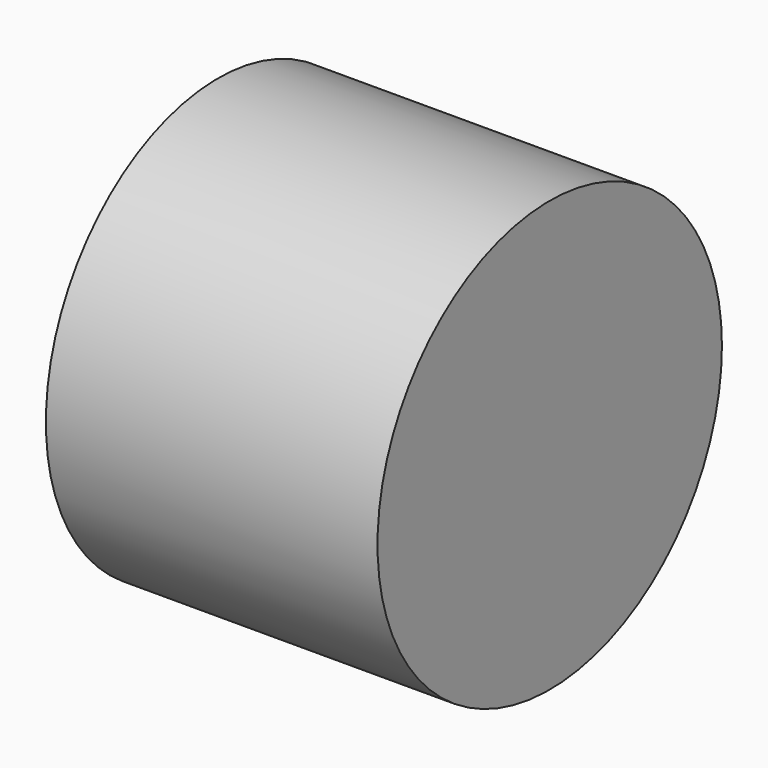
from build123d import *

# Parameters (mm, degrees)
F0_W     = 53.8787581027
F0_H     = 34.9701568484
F2_R     = 27.2671650164
F3_DEPTH = 25


with BuildPart() as f1:
    # F0 (on Top) → F1 (revolve)
    with BuildSketch(Plane.XY):
        with Locations((26.9393790513, 17.4850784242)):
            Rectangle(F0_W, F0_H)
    revolve(axis=Axis((26.9393790513, 0, 0), (1, 0, 0)))

    # F2 (on face) → F3 (join)
    with BuildSketch(Plane.YZ.offset(53.8787581027)):
        Circle(F2_R)
    extrude(amount=-F3_DEPTH)


solid = f1.part
